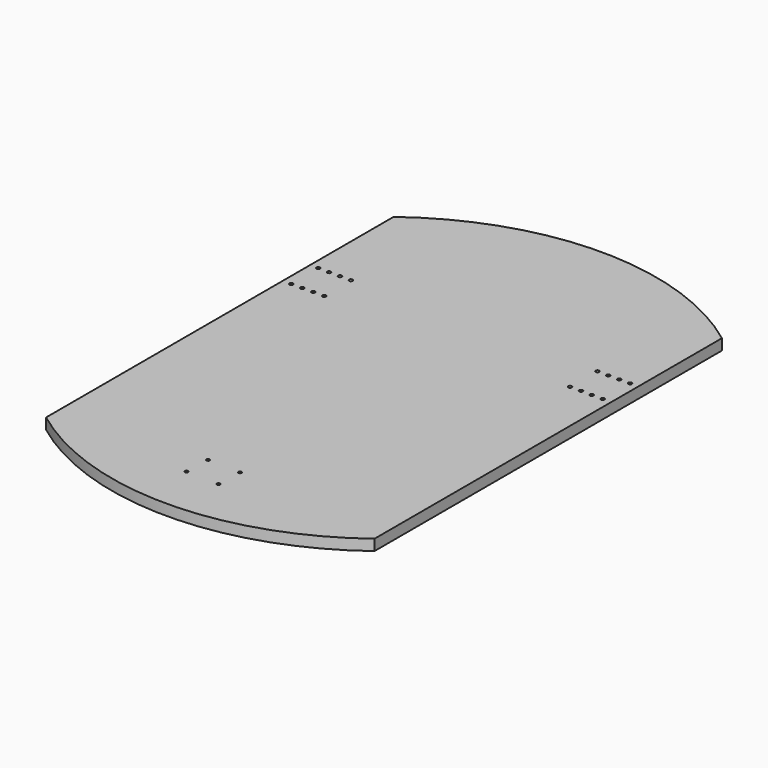
from build123d import *

# Parameters (mm, degrees)
PAD_DEPTH       = 10
SKETCH001_R     = 1.644392
SKETCH001_R_2   = 1.65157
SKETCH001_R_3   = 1.649148
SKETCH001_R_4   = 1.651214
SKETCH001_R_5   = 1.647788
SKETCH001_R_6   = 1.648804
SKETCH001_R_7   = 1.649175
SKETCH001_R_8   = 1.65022
POCKET_DEPTH    = 1177.994185
SKETCH002_R     = 1.5
POCKET001_DEPTH = 10.001


with BuildPart() as part:
    # Sketch → Pad (new body)
    with BuildSketch(Plane.XY):
        with BuildLine():
            ThreePointArc((-150.791263, -199.4041), (0, -250), (150.791263, -199.4041))
            Line((150.791263, 199.4041), (150.791263, -199.4041))
            ThreePointArc((150.791263, 199.4041), (0, 250), (-150.791263, 199.4041))
            Line((-150.791263, -199.4041), (-150.791263, 199.4041))
        make_face()
    extrude(amount=PAD_DEPTH)

    # Sketch001 (on Face6 of Pad) → Pocket (cut, through all)
    with BuildSketch(Plane.XY.offset(10)):
        with Locations((143.17194, 103.497585)):
            Circle(SKETCH001_R)
        with Locations((133.171706, 103.496141)):
            Circle(SKETCH001_R_2)
        with Locations((123.167499, 103.498465)):
            Circle(SKETCH001_R_3)
        with Locations((113.171268, 103.495805)):
            Circle(SKETCH001_R_4)
        with Locations((142.928472, 72.260962)):
            Circle(SKETCH001_R_5)
        with Locations((132.931272, 72.262033)):
            Circle(SKETCH001_R_6)
        with Locations((122.929515, 72.438862)):
            Circle(SKETCH001_R_7)
        with Locations((112.924957, 72.496527)):
            Circle(SKETCH001_R_8)
    pocket = extrude(amount=-POCKET_DEPTH, mode=Mode.SUBTRACT)

    # Mirrored: Pocket across Sketch001 V_Axis
    add(pocket.mirror(Plane(origin=(0, 0, 10), x_dir=(0, 0, 1), z_dir=(1, 0, 0))), mode=Mode.SUBTRACT)

    # Sketch002 (on DatumPlane) → Pocket001 (cut, through all)
    with BuildSketch(Plane.XY.offset(10)):
        with Locations((-19.594686, -202.247013)):
            Circle(SKETCH002_R)
        with Locations((10.42839, -203.084781)):
            Circle(SKETCH002_R)
        with Locations((-18.916492, -178.267013)):
            Circle(SKETCH002_R)
        with Locations((11.087714, -179.124447)):
            Circle(SKETCH002_R)
    extrude(amount=-POCKET001_DEPTH, mode=Mode.SUBTRACT)


solid = part.part
